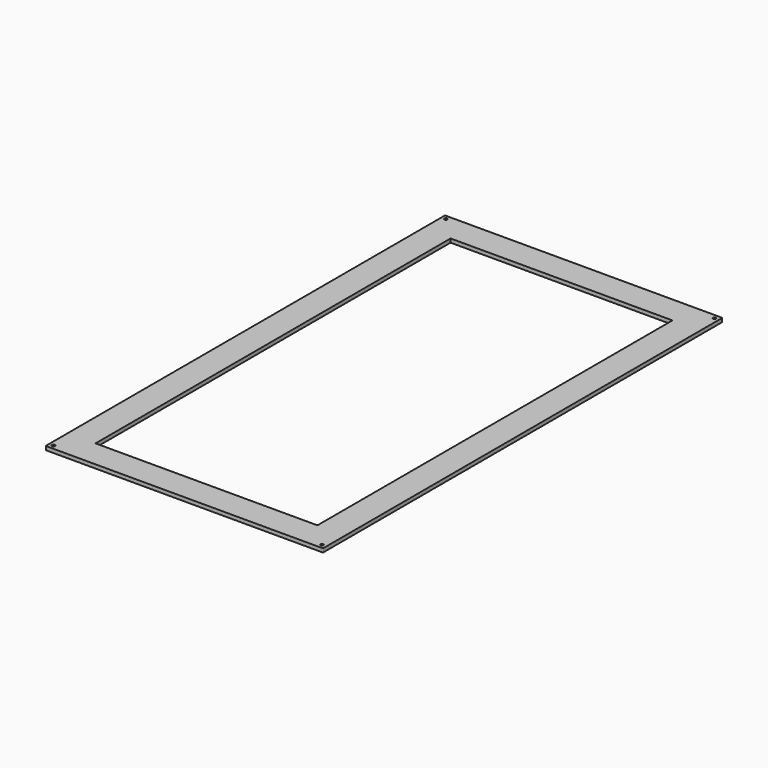
from build123d import *

# Parameters (mm, degrees)
F0_W     = 254
F0_H     = 457.2
F0_R     = 1.35255
F0_W_2   = 203.2
F0_H_2   = 406.4
F1_DEPTH = 3.41884
F2_R     = 0.762


with BuildPart() as f1:
    # F0 (on Top) → F1 (new body)
    with BuildSketch(Plane.XY):
        Rectangle(F0_W, F0_H)
        with Locations((-123.03125, -224.63125)):
            Circle(F0_R, mode=Mode.SUBTRACT)
        with Locations((123.03125, -224.63125)):
            Circle(F0_R, mode=Mode.SUBTRACT)
        with Locations((-123.03125, 224.63125)):
            Circle(F0_R, mode=Mode.SUBTRACT)
        Rectangle(F0_W_2, F0_H_2, mode=Mode.SUBTRACT)
        with Locations((123.03125, 224.63125)):
            Circle(F0_R, mode=Mode.SUBTRACT)
    extrude(amount=F1_DEPTH)

    # F2
    f2_edges = [f1.edges().sort_by_distance(p)[0] for p in [
        (-127, 228.6, 1.70942),
        (-127, -228.6, 1.70942),
        (127, -228.6, 1.70942),
        (127, 228.6, 1.70942),
    ]]
    fillet(f2_edges, radius=F2_R)


solid = f1.part
